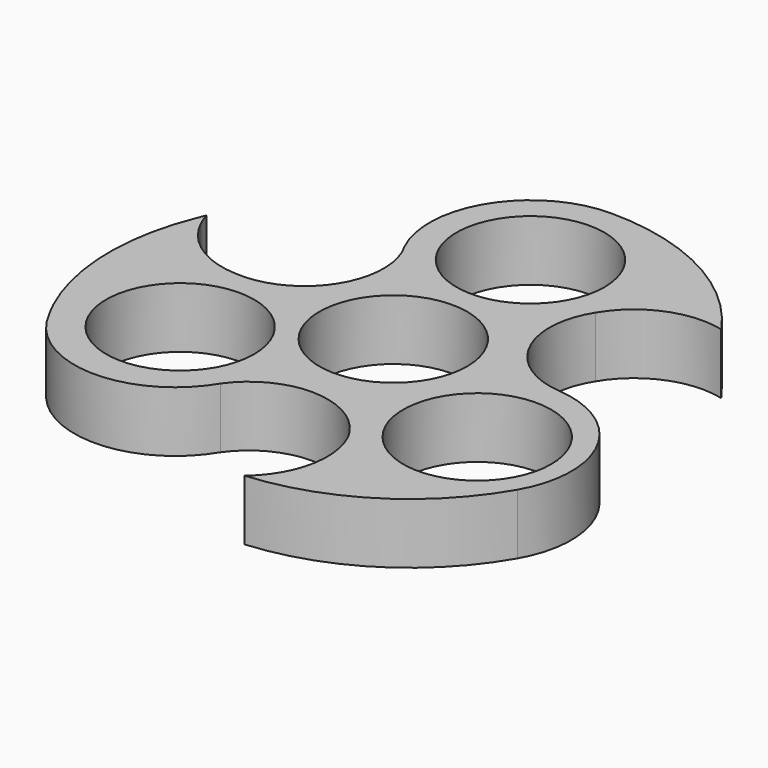
from build123d import *

# Parameters (mm, degrees)
F0_R     = 11
F1_DEPTH = 9


with BuildPart() as f1:
    # F0 (on Top) → F1 (new body)
    with BuildSketch(Plane.XY):
        with BuildLine():
            ThreePointArc((-36.851079, 9.464021), (-39.389584, -4.277113), (-36.232757, -17.889505))
            ThreePointArc((-36.232757, -17.889505), (-35.619676, -19.115828), (-34.958043, -20.316652))
            ThreePointArc((-34.958043, -20.316652), (-22.102923, -28.572601), (-8.67895, -21.277965))
            ThreePointArc((-8.67895, -21.277965), (1.696424, -16.308632), (11.338573, -22.583312))
            ThreePointArc((11.338573, -22.583312), (12.196181, -30.664961), (7.987033, -37.617055))
            ThreePointArc((7.987033, -37.617055), (23.55354, -32.423652), (34.921925, -20.58949))
            ThreePointArc((34.921925, -20.58949), (35.19653, -6.086622), (23.066393, 1.867519))
            ThreePointArc((23.066393, 1.867519), (13.575138, 8.36819), (14.188096, 19.855876))
            ThreePointArc((14.188096, 19.855876), (20.235163, 25.094459), (28.21375, 25.687702))
            ThreePointArc((28.21375, 25.687702), (15.932878, 36.571991), (0, 40.50022))
            ThreePointArc((0, 40.50022), (-12.697154, 33.486601), (-13.520574, 19.004523))
            ThreePointArc((-13.520574, 19.004523), (-13.750641, 6.869394), (-24.594523, 1.417373))
            ThreePointArc((-24.594523, 1.417373), (-31.129245, 3.546576), (-35.603177, 8.763859))
            ThreePointArc((-35.603177, 8.763859), (-36.022944, 9.741554), (-36.359555, 10.750902))
            Line((-36.359555, 10.750902), (-36.851079, 9.464021))
        make_face()
        with Locations((-21.232757, -13.068097)):
            Circle(F0_R, mode=Mode.SUBTRACT)
        Circle(F0_R, mode=Mode.SUBTRACT)
        with Locations((22.986825, -13.132481)):
            Circle(F0_R, mode=Mode.SUBTRACT)
        with Locations((0, 25.50022)):
            Circle(F0_R, mode=Mode.SUBTRACT)
    extrude(amount=F1_DEPTH)


solid = f1.part
